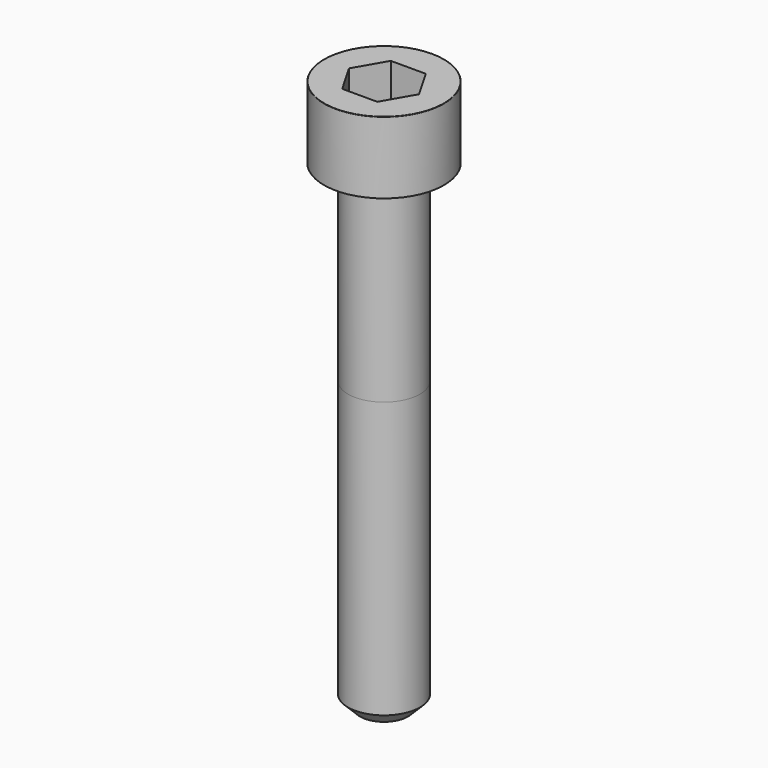
from build123d import *

# Parameters (mm, degrees)
POCKET_DEPTH = 5.06


with BuildPart() as part:
    # Sketch → Revolve (revolve)
    with BuildSketch(Plane.YZ):
        with BuildLine():
            Line((2.999, 0), (5, 0))
            Line((5, 0), (5, 5.97229))
            ThreePointArc((5, 5.97229), (4.991884, 5.991884), (4.97229, 6))
            Line((4.97229, 6), (0, 6))
            Line((0, -40), (0, 6))
            Line((2, -40), (0, -40))
            Line((3, -39), (2, -40))
            Line((3, -16), (3, -39))
            Line((2.999, 0), (3, -16))
        make_face()
    revolve(axis=Axis((0, 0, 0), (0, 0, 1)))

    # Sketch001 → Pocket (cut)
    with BuildSketch(Plane.XY.offset(6)):
        Polygon((2.921392, 0), (1.460696, 2.53), (-1.460696, 2.53), (-2.921392, 0), (-1.460696, -2.53), (1.460696, -2.53), align=None)
    extrude(amount=-POCKET_DEPTH, mode=Mode.SUBTRACT)


solid = part.part
